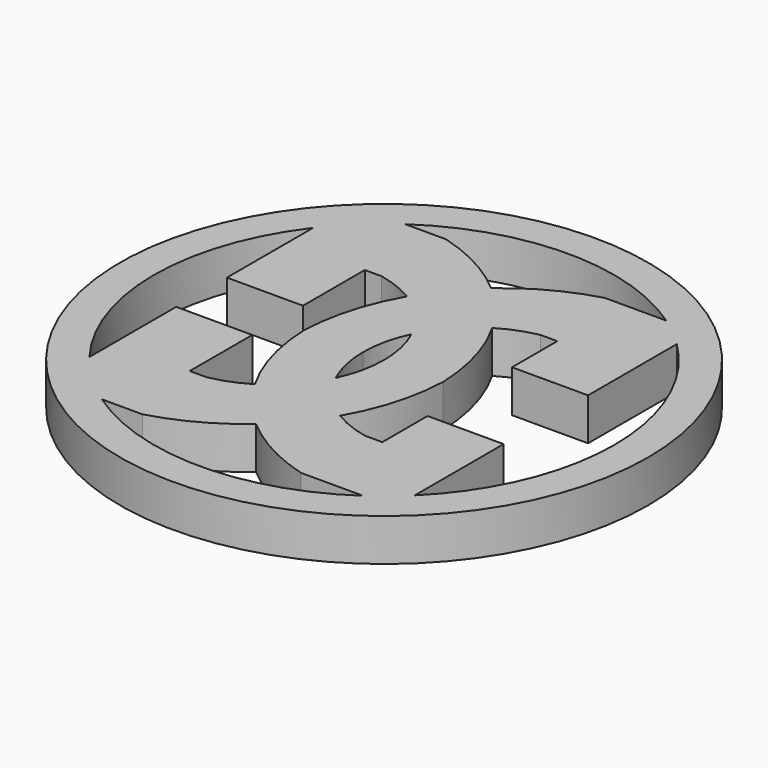
from build123d import *

# Parameters (mm, degrees)
F0_R     = 25
F1_DEPTH = 4
F3_DEPTH = 5


with BuildPart() as f1:
    # F0 (on Top) → F1 (new body)
    with BuildSketch(Plane.XY):
        Circle(F0_R)
    extrude(amount=F1_DEPTH)

    # F2 (on face) → F3 (cut)
    with BuildSketch(Plane.XY.offset(4)):
        with BuildLine():
            Line((-17.318032, 10.358936), (-17.318032, 13.241064))
            ThreePointArc((-17.318032, 13.241064), (-21.8, 0), (-17.318032, -13.241064))
            Line((-17.318032, -13.241064), (-17.318032, -5.958936))
            Line((-17.318032, -5.958936), (-17.318032, -2.958936))
            Line((-17.318032, -2.958936), (-10.118032, -2.958936))
            Line((-10.118032, -2.958936), (-10.118032, -5.958936))
            Line((-10.118032, -5.958936), (-10.118032, -10.358936))
            Line((-10.118032, -10.358936), (-8.518032, -10.358936))
            ThreePointArc((-8.518032, -10.358936), (-6.718569, -9.835054), (-5.040088, -9.001257))
            ThreePointArc((-5.040088, -9.001257), (-6.874725, -4.658377), (-7.6, 0))
            ThreePointArc((-7.6, 0), (-6.874725, 4.658377), (-5.040088, 9.001257))
            ThreePointArc((-5.040088, 9.001257), (-6.718569, 9.835054), (-8.518032, 10.358936))
            Line((-8.518032, 10.358936), (-10.118032, 10.358936))
            Line((-10.118032, 10.358936), (-10.118032, 3.041064))
            Line((-10.118032, 3.041064), (-17.318032, 3.041064))
            Line((-17.318032, 3.041064), (-17.318032, 10.358936))
        make_face()
        with BuildLine():
            ThreePointArc((0, 0), (-0.253032, 2.297592), (-1, 4.485056))
            ThreePointArc((-1, 4.485056), (-1.746968, 2.297592), (-2, 0))
            ThreePointArc((-2, 0), (-1.746968, -2.297592), (-1, -4.485056))
            ThreePointArc((-1, -4.485056), (-0.253032, -2.297592), (0, 0))
        make_face()
        with BuildLine():
            Line((6.518032, 17.958936), (12.357857, 17.958936))
            ThreePointArc((12.357857, 17.958936), (0, 21.8), (-12.357857, 17.958936))
            Line((-12.357857, 17.958936), (-8.518032, 17.958936))
            ThreePointArc((-8.518032, 17.958936), (-4.532276, 16.358457), (-1, 13.914934))
            ThreePointArc((-1, 13.914934), (2.532276, 16.358457), (6.518032, 17.958936))
        make_face()
        with BuildLine():
            ThreePointArc((15.318032, -15.511219), (20.114337, -8.405561), (21.8, 0))
            ThreePointArc((21.8, 0), (20.114337, 8.405561), (15.318032, 15.511219))
            Line((15.318032, 15.511219), (15.318032, 10.358936))
            Line((15.318032, 10.358936), (15.318032, 5))
            Line((15.318032, 5), (8.118032, 5))
            Line((8.118032, 5), (8.118032, 10.358936))
            Line((8.118032, 10.358936), (6.518032, 10.358936))
            ThreePointArc((6.518032, 10.358936), (4.718569, 9.835054), (3.040088, 9.001257))
            ThreePointArc((3.040088, 9.001257), (4.874725, 4.658377), (5.6, 0))
            ThreePointArc((5.6, 0), (4.874725, -4.658377), (3.040088, -9.001257))
            ThreePointArc((3.040088, -9.001257), (4.718569, -9.835054), (6.518032, -10.358936))
            Line((6.518032, -10.358936), (8.118032, -10.358936))
            Line((8.118032, -10.358936), (8.118032, -4.999936))
            Line((8.118032, -4.999936), (15.318032, -4.999936))
            Line((15.318032, -4.999936), (15.318032, -10.358936))
            Line((15.318032, -10.358936), (15.318032, -15.511219))
        make_face()
        with BuildLine():
            ThreePointArc((-12.357857, -17.958936), (0, -21.8), (12.357857, -17.958936))
            Line((12.357857, -17.958936), (10.357857, -17.958936))
            Line((10.357857, -17.958936), (6.518032, -17.958936))
            ThreePointArc((6.518032, -17.958936), (2.532276, -16.358457), (-1, -13.914934))
            ThreePointArc((-1, -13.914934), (-4.532276, -16.358457), (-8.518032, -17.958936))
            Line((-8.518032, -17.958936), (-12.357857, -17.958936))
        make_face()
    extrude(amount=-F3_DEPTH, mode=Mode.SUBTRACT)


solid = f1.part
